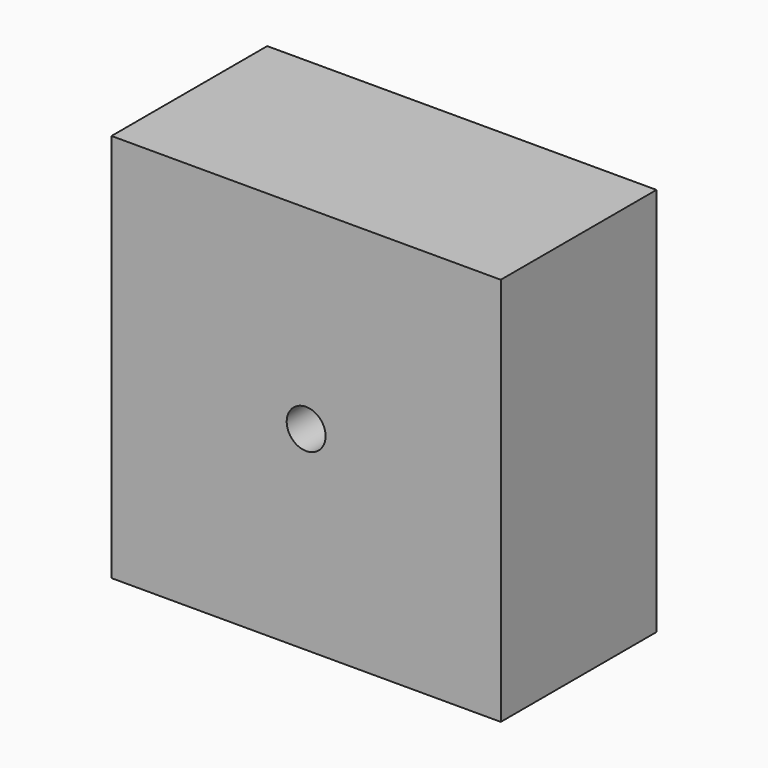
from build123d import *

# Parameters (mm, degrees)
F0_W           = 50
F0_H           = 50
F1_DEPTH       = 25
F3_D           = 5
F3_DEPTH       = 25
F3_CBORE_D     = 7
F3_CBORE_DEPTH = 8
F3_TIP         = 1.5021515476


with BuildPart() as f1:
    # F0 (on Front) → F1 (new body)
    with BuildSketch(Plane.XZ):
        with Locations((-134.8176662957, 43.7536612153)):
            Rectangle(F0_W, F0_H)
    extrude(amount=F1_DEPTH)

    # F3
    with Locations(Plane(origin=(0, 0, 0), x_dir=(1, 0, 0), z_dir=(0, 1, 0))):
        with Locations((-134.8176662957, -43.7536612153)):
            CounterBoreHole(F3_D / 2, F3_CBORE_D / 2, F3_CBORE_DEPTH, depth=F3_DEPTH)
            with Locations((0, 0, -(F3_DEPTH + F3_TIP / 2))):  # 118° drill point
                Cone(0, F3_D / 2, F3_TIP, mode=Mode.SUBTRACT)


solid = f1.part
